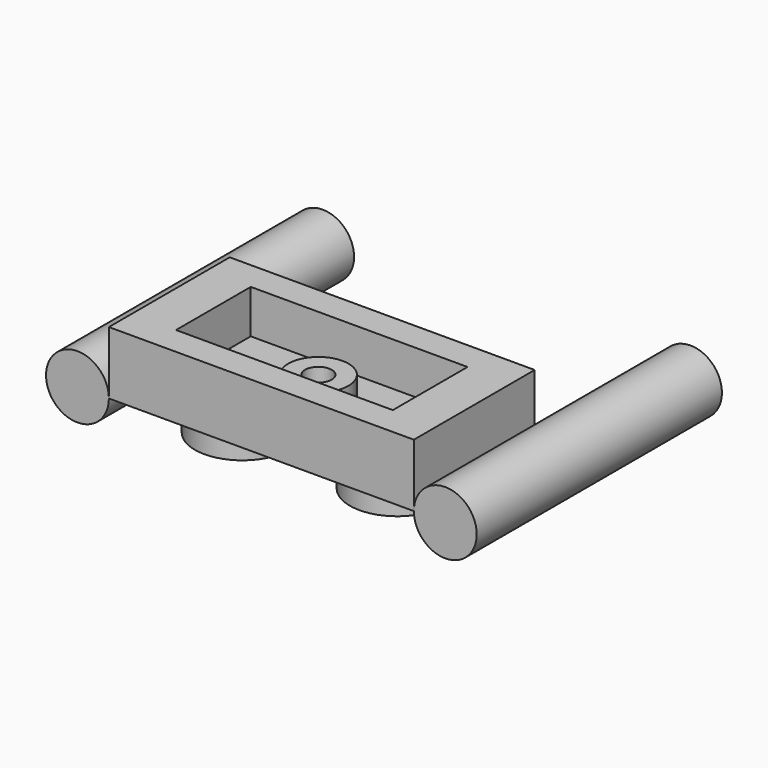
from build123d import *

# Parameters (mm, degrees)
F0_W      = 15.77
F0_H      = 7.81
F1_DEPTH  = 3.25
F2_R      = 1.625
F3_DEPTH  = 15.85
F4_W      = 11.21
F4_H      = 4.83
F5_DEPTH  = 25
F6_W      = 15.632574
F6_H      = 7.912829
F7_DEPTH  = 1
F8_R      = 2.45
F9_DEPTH  = 1.81
F10_R     = 1.555
F10_R_2   = 0.69
F11_DEPTH = 2


with BuildPart() as f1:
    # F0 (on Top) → F1 (new body)
    with BuildSketch(Plane.XY):
        with Locations((-10.186976, 3.905)):
            Rectangle(F0_W, F0_H)
    extrude(amount=F1_DEPTH)

    # F4 (on Top) → F5 (cut)
    with BuildSketch(Plane.XY):
        with Locations((-10.186976, 3.905)):
            Rectangle(F4_W, F4_H)
    extrude(amount=F5_DEPTH, mode=Mode.SUBTRACT)

    # F6 (on Top) → F7 (join)
    with BuildSketch(Plane.XY):
        with Locations((-10.234115, 3.956414)):
            Rectangle(F6_W, F6_H)
    extrude(amount=F7_DEPTH)

    # F8 (on Top) → F9 (join)
    with BuildSketch(Plane.XY):
        with Locations((-14.181124, 3.763117)):
            Circle(F8_R)
        with Locations((-6.241631, 3.852829)):
            Circle(F8_R)
    extrude(amount=-F9_DEPTH)

    # F10 (on Top) → F11 (join)
    with BuildSketch(Plane.XY):
        with Locations((-10.360711, 3.905275)):
            Circle(F10_R)
        with Locations((-10.360711, 3.905275)):
            Circle(F10_R_2, mode=Mode.SUBTRACT)
    extrude(amount=F11_DEPTH)


with BuildPart() as f3:
    # F2 (on Front) → F3 (new body)
    with BuildSketch(Plane.XZ):
        with Locations((-19.696976, 0)):
            Circle(F2_R)
        with Locations((-0.676976, 0)):
            Circle(F2_R)
    extrude(amount=-F3_DEPTH)


solid = Compound([f1.part, f3.part])
